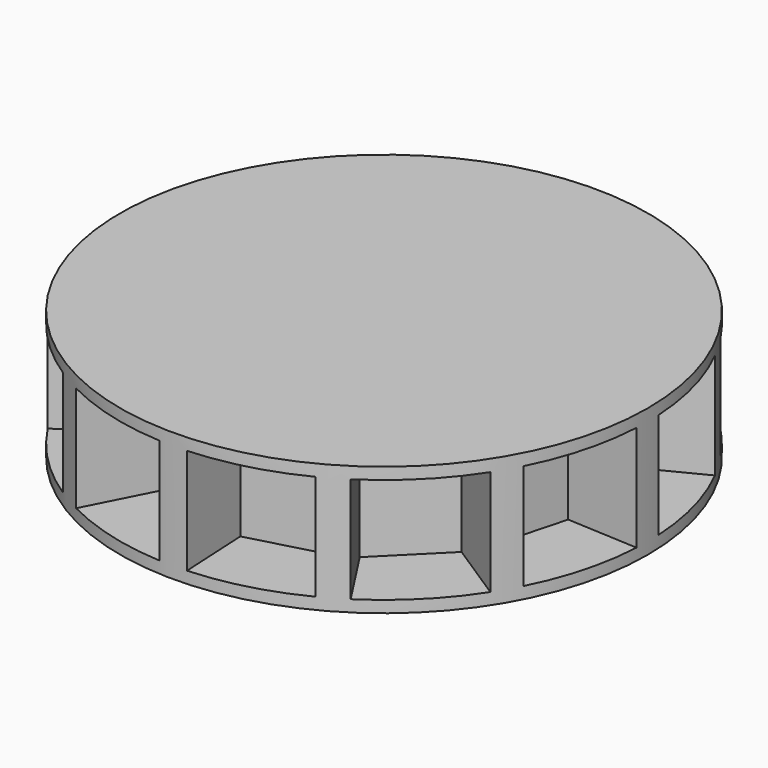
from build123d import *

# Parameters (mm, degrees)
F0_R     = 45
F1_DEPTH = 20
F3_DEPTH = 18
F4_R     = 45
F5_DEPTH = 2


with BuildPart() as f1:
    # F0 (on Top) → F1 (new body)
    with BuildSketch(Plane.XY):
        Circle(F0_R)
    extrude(amount=F1_DEPTH)

    # F2 (on face) → F3 (cut)
    with BuildSketch(Plane.XY.offset(20)):
        with BuildLine():
            Line((29.241279, 14.899176), (32.773278, 1.717575))
            Line((32.773278, 1.717575), (44.938329, 2.355118))
            ThreePointArc((44.938329, 2.355118), (43.466662, 11.646857), (40.095294, 20.429572))
            Line((40.095294, 20.429572), (29.241279, 14.899176))
        make_face()
        with BuildLine():
            Line((27.523704, 17.874102), (37.740176, 24.508757))
            ThreePointArc((37.740176, 24.508757), (31.819805, 31.819805), (24.508757, 37.740176))
            Line((24.508757, 37.740176), (17.874102, 27.523704))
            Line((17.874102, 27.523704), (27.523704, 17.874102))
        make_face()
        with BuildLine():
            ThreePointArc((20.429572, 40.095294), (11.646857, 43.466662), (2.355118, 44.938329))
            Line((2.355118, 44.938329), (1.717575, 32.773278))
            Line((1.717575, 32.773278), (14.899176, 29.241279))
            Line((14.899176, 29.241279), (20.429572, 40.095294))
        make_face()
        with BuildLine():
            ThreePointArc((-40.095294, 20.429572), (-43.466662, 11.646857), (-44.938329, 2.355118))
            Line((-44.938329, 2.355118), (-32.773278, 1.717575))
            Line((-32.773278, 1.717575), (-29.241279, 14.899176))
            Line((-29.241279, 14.899176), (-40.095294, 20.429572))
        make_face()
        with BuildLine():
            ThreePointArc((-24.508757, 37.740176), (-31.819805, 31.819805), (-37.740176, 24.508757))
            Line((-37.740176, 24.508757), (-27.523704, 17.874102))
            Line((-27.523704, 17.874102), (-17.874102, 27.523704))
            Line((-17.874102, 27.523704), (-24.508757, 37.740176))
        make_face()
        with BuildLine():
            ThreePointArc((-2.355118, 44.938329), (-11.646857, 43.466662), (-20.429572, 40.095294))
            Line((-20.429572, 40.095294), (-14.899176, 29.241279))
            Line((-14.899176, 29.241279), (-1.717575, 32.773278))
            Line((-1.717575, 32.773278), (-2.355118, 44.938329))
        make_face()
        with BuildLine():
            ThreePointArc((-20.429572, -40.095294), (-11.646857, -43.466662), (-2.355118, -44.938329))
            Line((-2.355118, -44.938329), (-1.717575, -32.773278))
            Line((-1.717575, -32.773278), (-14.899176, -29.241279))
            Line((-14.899176, -29.241279), (-20.429572, -40.095294))
        make_face()
        with BuildLine():
            ThreePointArc((-37.740176, -24.508757), (-31.819805, -31.819805), (-24.508757, -37.740176))
            Line((-24.508757, -37.740176), (-17.874102, -27.523704))
            Line((-17.874102, -27.523704), (-27.523704, -17.874102))
            Line((-27.523704, -17.874102), (-37.740176, -24.508757))
        make_face()
        with BuildLine():
            ThreePointArc((-44.938329, -2.355118), (-43.466662, -11.646857), (-40.095294, -20.429572))
            Line((-40.095294, -20.429572), (-29.241279, -14.899176))
            Line((-29.241279, -14.899176), (-32.773278, -1.717575))
            Line((-32.773278, -1.717575), (-44.938329, -2.355118))
        make_face()
        with BuildLine():
            ThreePointArc((40.095294, -20.429572), (43.466662, -11.646857), (44.938329, -2.355118))
            Line((44.938329, -2.355118), (32.773278, -1.717575))
            Line((32.773278, -1.717575), (29.241279, -14.899176))
            Line((29.241279, -14.899176), (40.095294, -20.429572))
        make_face()
        with BuildLine():
            ThreePointArc((24.508757, -37.740176), (31.819805, -31.819805), (37.740176, -24.508757))
            Line((37.740176, -24.508757), (27.523704, -17.874102))
            Line((27.523704, -17.874102), (17.874102, -27.523704))
            Line((17.874102, -27.523704), (24.508757, -37.740176))
        make_face()
        with BuildLine():
            ThreePointArc((2.355118, -44.938329), (11.646857, -43.466662), (20.429572, -40.095294))
            Line((20.429572, -40.095294), (14.899176, -29.241279))
            Line((14.899176, -29.241279), (1.717575, -32.773278))
            Line((1.717575, -32.773278), (2.355118, -44.938329))
        make_face()
    extrude(amount=-F3_DEPTH, mode=Mode.SUBTRACT)

    # F4 (on face) → F5 (join)
    with BuildSketch(Plane.XY.offset(20)):
        Circle(F4_R)
    extrude(amount=F5_DEPTH)


solid = f1.part
